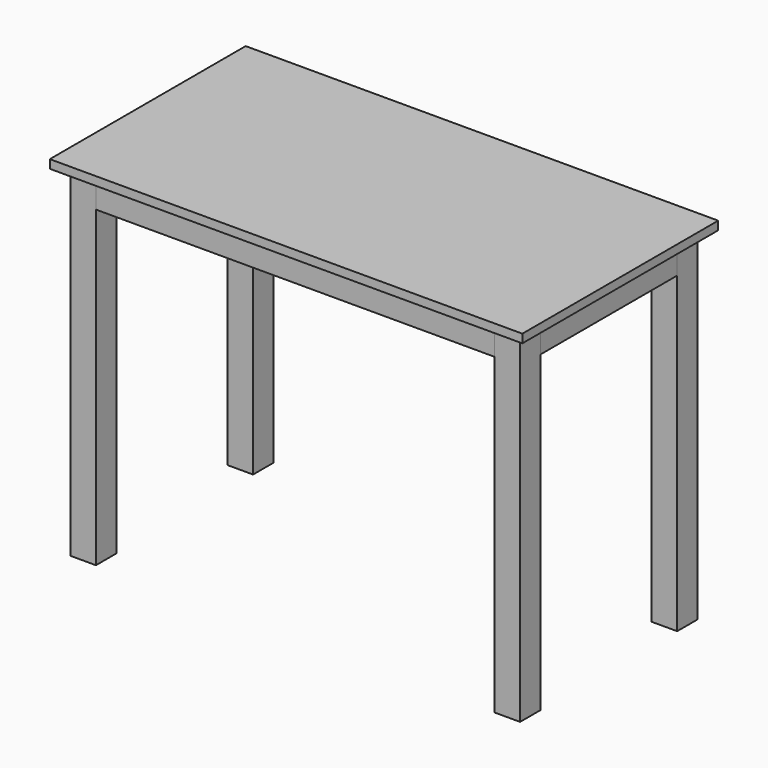
from build123d import *

# Parameters (mm, degrees)
F0_W     = 1054.1
F0_H     = 546.1
F1_DEPTH = 19.05
F2_W     = 57.15
F2_H     = 57.15
F3_DEPTH = 762
F4_W     = 889
F4_H     = 19.05
F4_W_2   = 19.05
F4_H_2   = 381
F5_DEPTH = 63.5


with BuildPart() as f1:
    # F0 (on Top) → F1 (new body)
    with BuildSketch(Plane.XY):
        Rectangle(F0_W, F0_H)
    extrude(amount=F1_DEPTH)


with BuildPart() as f3:
    # F2 (on face) → F3 (new body)
    with BuildSketch(Plane(origin=(0, 0, 0), x_dir=(1, 0, 0), z_dir=(0, 0, -1))):
        with Locations((-473.075, 219.075)):
            Rectangle(F2_W, F2_H)
        with Locations((473.075, 219.075)):
            Rectangle(F2_W, F2_H)
        with Locations((473.075, -219.075)):
            Rectangle(F2_W, F2_H)
        with Locations((-473.075, -219.075)):
            Rectangle(F2_W, F2_H)
    extrude(amount=F3_DEPTH)


with BuildPart() as f5:
    # F4 (on face) → F5 (new body)
    with BuildSketch(Plane(origin=(0, 0, 0), x_dir=(1, 0, 0), z_dir=(0, 0, -1))):
        with Locations((0, 238.125)):
            Rectangle(F4_W, F4_H)
        with Locations((-492.125, 0)):
            Rectangle(F4_W_2, F4_H_2)
        with Locations((0, -238.125)):
            Rectangle(F4_W, F4_H)
        with Locations((492.125, 0)):
            Rectangle(F4_W_2, F4_H_2)
    extrude(amount=F5_DEPTH)


solid = Compound([f1.part, f3.part, f5.part])
